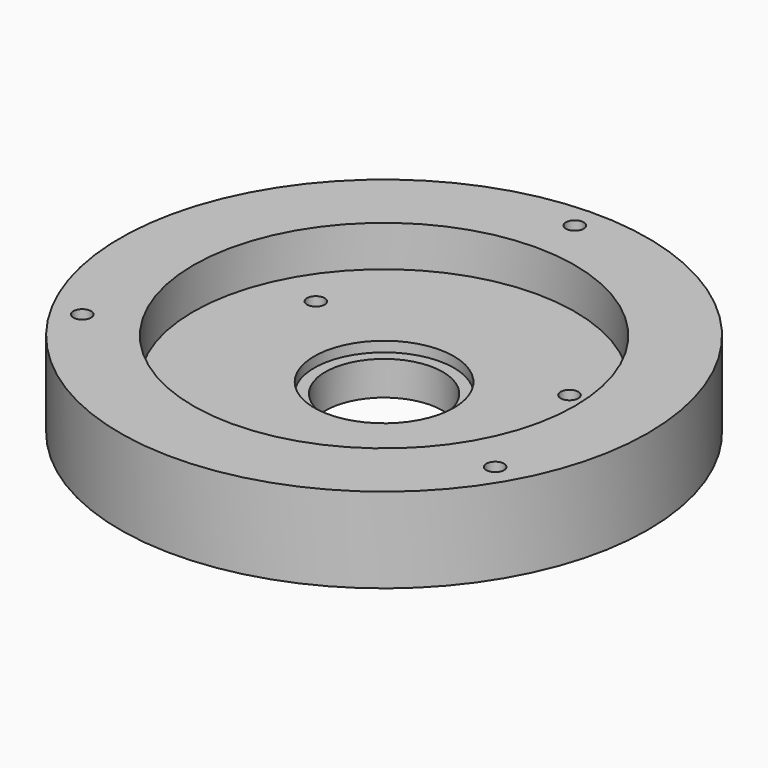
from build123d import *

# Parameters (mm, degrees)
F0_R     = 77.5
F0_R_2   = 5.125
F0_R_3   = 56
F0_R_4   = 20.5
F0_R_5   = 2.6
F1_DEPTH = 13
F2_DEPTH = 25
F0_R_6   = 17.25
F3_DEPTH = 10
F4_DEPTH = 6
F5_DEPTH = 6


with BuildPart() as f1:
    # F0 (on Top) → F1 (new body)
    with BuildSketch(Plane.XY):
        Circle(F0_R)
        with Locations((-60.621778, -35)):
            Circle(F0_R_2, mode=Mode.SUBTRACT)
        with Locations((60.621778, -35)):
            Circle(F0_R_2, mode=Mode.SUBTRACT)
        Circle(F0_R_3, mode=Mode.SUBTRACT)
        with Locations((0, 70)):
            Circle(F0_R_2, mode=Mode.SUBTRACT)
        Circle(F0_R_3)
        Polygon((-4.6, -43), (-2.3, -39.016283), (2.3, -39.016283), (4.6, -43), (2.3, -46.983717), (-2.3, -46.983717), align=None, mode=Mode.SUBTRACT)
        Polygon((-34.939092, 25.483717), (-32.639092, 21.5), (-34.939092, 17.516283), (-39.539092, 17.516283), (-41.839092, 21.5), (-39.539092, 25.483717), align=None, mode=Mode.SUBTRACT)
        Circle(F0_R_4, mode=Mode.SUBTRACT)
        Polygon((34.939092, 17.516283), (32.639092, 21.5), (34.939092, 25.483717), (39.539092, 25.483717), (41.839092, 21.5), (39.539092, 17.516283), align=None, mode=Mode.SUBTRACT)
        with Locations((0, 70)):
            Circle(F0_R_2)
        with Locations((0, 70)):
            Circle(F0_R_5, mode=Mode.SUBTRACT)
        Polygon((-34.939092, 17.516283), (-32.639092, 21.5), (-34.939092, 25.483717), (-39.539092, 25.483717), (-41.839092, 21.5), (-39.539092, 17.516283), align=None)
        with Locations((-37.239092, 21.5)):
            Circle(F0_R_5, mode=Mode.SUBTRACT)
        Polygon((34.939092, 25.483717), (32.639092, 21.5), (34.939092, 17.516283), (39.539092, 17.516283), (41.839092, 21.5), (39.539092, 25.483717), align=None)
        with Locations((37.239092, 21.5)):
            Circle(F0_R_5, mode=Mode.SUBTRACT)
        with Locations((60.621778, -35)):
            Circle(F0_R_2)
        with Locations((60.621778, -35)):
            Circle(F0_R_5, mode=Mode.SUBTRACT)
        Polygon((2.3, -39.016283), (-2.3, -39.016283), (-4.6, -43), (-2.3, -46.983717), (2.3, -46.983717), (4.6, -43), align=None)
        with Locations((0, -43)):
            Circle(F0_R_5, mode=Mode.SUBTRACT)
        with Locations((-60.621778, -35)):
            Circle(F0_R_2)
        with Locations((-60.621778, -35)):
            Circle(F0_R_5, mode=Mode.SUBTRACT)
    extrude(amount=F1_DEPTH)

    # F0 (on Top) → F2 (join)
    with BuildSketch(Plane.XY):
        Circle(F0_R)
        with Locations((-60.621778, -35)):
            Circle(F0_R_2, mode=Mode.SUBTRACT)
        with Locations((60.621778, -35)):
            Circle(F0_R_2, mode=Mode.SUBTRACT)
        Circle(F0_R_3, mode=Mode.SUBTRACT)
        with Locations((0, 70)):
            Circle(F0_R_2, mode=Mode.SUBTRACT)
        with Locations((0, 70)):
            Circle(F0_R_2)
        with Locations((0, 70)):
            Circle(F0_R_5, mode=Mode.SUBTRACT)
        with Locations((60.621778, -35)):
            Circle(F0_R_2)
        with Locations((60.621778, -35)):
            Circle(F0_R_5, mode=Mode.SUBTRACT)
        with Locations((-60.621778, -35)):
            Circle(F0_R_2)
        with Locations((-60.621778, -35)):
            Circle(F0_R_5, mode=Mode.SUBTRACT)
    extrude(amount=F2_DEPTH)

    # F0 (on Top) → F3 (join)
    with BuildSketch(Plane.XY):
        Circle(F0_R_4)
        Circle(F0_R_6, mode=Mode.SUBTRACT)
    extrude(amount=F3_DEPTH)

    # F0 (on Top) → F4 (cut)
    with BuildSketch(Plane.XY):
        with Locations((0, 70)):
            Circle(F0_R_2)
        with Locations((0, 70)):
            Circle(F0_R_5, mode=Mode.SUBTRACT)
        with Locations((-60.621778, -35)):
            Circle(F0_R_2)
        with Locations((-60.621778, -35)):
            Circle(F0_R_5, mode=Mode.SUBTRACT)
        with Locations((60.621778, -35)):
            Circle(F0_R_2)
        with Locations((60.621778, -35)):
            Circle(F0_R_5, mode=Mode.SUBTRACT)
    extrude(amount=F4_DEPTH, mode=Mode.SUBTRACT)

    # F0 (on Top) → F5 (cut)
    with BuildSketch(Plane.XY):
        Polygon((34.939092, 25.483717), (32.639092, 21.5), (34.939092, 17.516283), (39.539092, 17.516283), (41.839092, 21.5), (39.539092, 25.483717), align=None)
        with Locations((37.239092, 21.5)):
            Circle(F0_R_5, mode=Mode.SUBTRACT)
        Polygon((-34.939092, 17.516283), (-32.639092, 21.5), (-34.939092, 25.483717), (-39.539092, 25.483717), (-41.839092, 21.5), (-39.539092, 17.516283), align=None)
        with Locations((-37.239092, 21.5)):
            Circle(F0_R_5, mode=Mode.SUBTRACT)
        Polygon((2.3, -39.016283), (-2.3, -39.016283), (-4.6, -43), (-2.3, -46.983717), (2.3, -46.983717), (4.6, -43), align=None)
        with Locations((0, -43)):
            Circle(F0_R_5, mode=Mode.SUBTRACT)
    extrude(amount=F5_DEPTH, mode=Mode.SUBTRACT)


solid = f1.part
